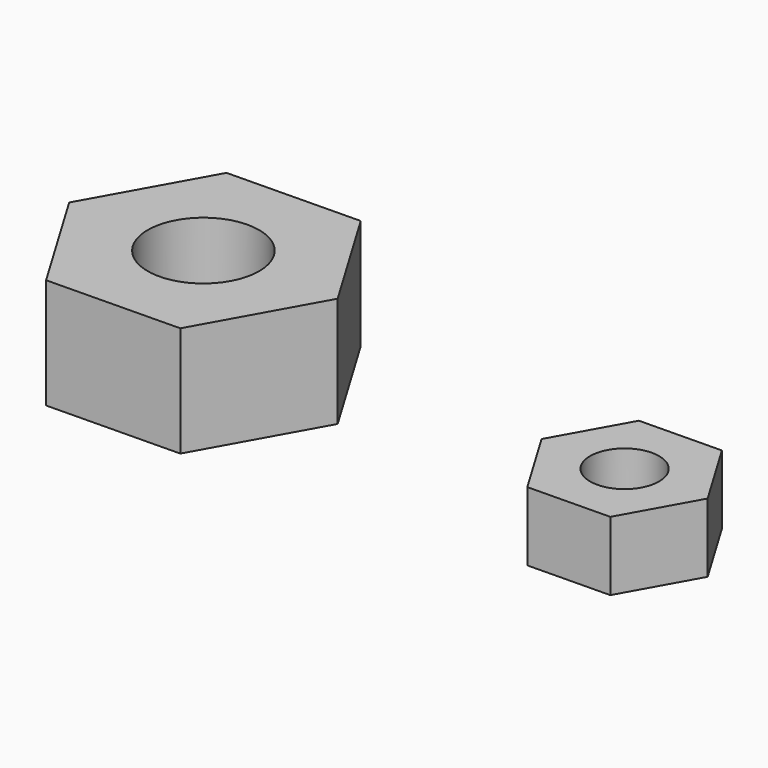
from build123d import *

# Parameters (mm, degrees)
F0_R     = 4.041675
F1_DEPTH = 8
F2_R     = 2.5
F3_DEPTH = 5


with BuildPart() as f1:
    # F0 (on Top) → F1 (new body)
    with BuildSketch(Plane.XY):
        Polygon((9.6222, 0.142791), (4.687439, 8.404465), (-4.934761, 8.261674), (-9.6222, -0.142791), (-4.687439, -8.404465), (4.934761, -8.261674), align=None)
        Circle(F0_R, mode=Mode.SUBTRACT)
    extrude(amount=F1_DEPTH)


with BuildPart() as f3:
    # F2 (on Top) → F3 (new body)
    with BuildSketch(Plane.XY):
        Polygon((37.697369, -1.406601), (34.644946, 3.703702), (28.693082, 3.615378), (25.793641, -1.58325), (28.846064, -6.693553), (34.797929, -6.605229), align=None)
        with Locations((31.745505, -1.494925)):
            Circle(F2_R, mode=Mode.SUBTRACT)
    extrude(amount=F3_DEPTH)


solid = Compound([f1.part, f3.part])
